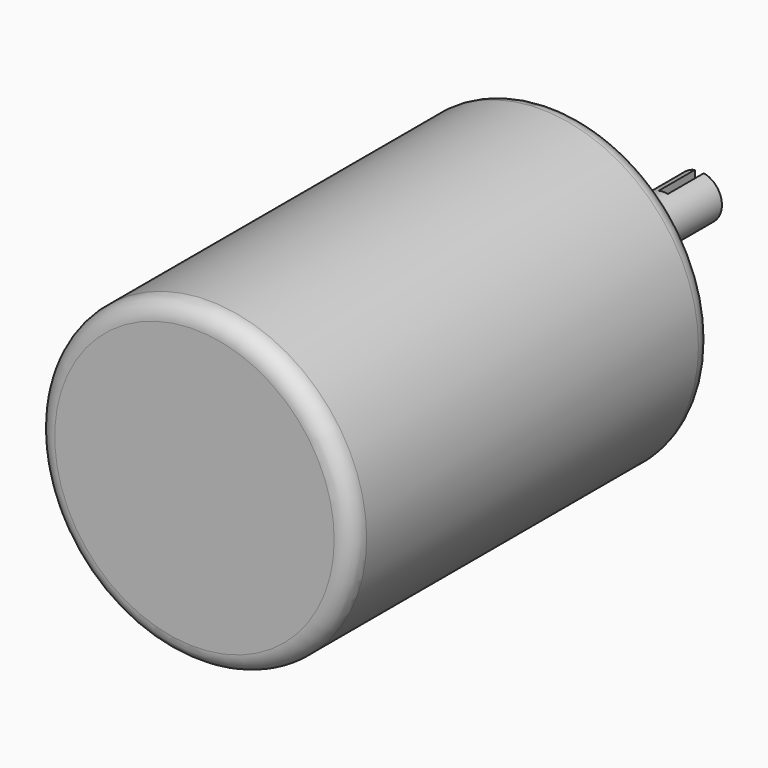
from build123d import *

# Parameters (mm, degrees)
F0_R     = 6.35
F1_DEPTH = 50.8
F2_R     = 44.45
F3_DEPTH = 127
F4_R     = 5.08
F5_R     = 5.08
F7_DEPTH = 12.7


with BuildPart() as f1:
    # F0 (on Front) → F1 (new body)
    with BuildSketch(Plane.XZ):
        Circle(F0_R)
    extrude(amount=F1_DEPTH)

    # F2 (on face) → F3 (join)
    with BuildSketch(Plane.XZ.offset(50.8)):
        Circle(F2_R)
    extrude(amount=F3_DEPTH)

    # F4
    f4_edges = [f1.edges().sort_by_distance(p)[0] for p in [
        (-44.45, -50.8, 0),
    ]]
    fillet(f4_edges, radius=F4_R)

    # F5
    f5_edges = [f1.edges().sort_by_distance(p)[0] for p in [
        (-44.45, -177.8, 0),
    ]]
    fillet(f5_edges, radius=F5_R)

    # F6 (on face) → F7 (cut)
    with BuildSketch(Plane(origin=(0, 0, 0), x_dir=(-1, 0, 0), z_dir=(0, 1, 0))):
        with BuildLine():
            ThreePointArc((0, 6.35), (-0.6382319087, 6.3178445716), (-1.27, 6.2217039467))
            Line((-1.27, 6.2217039467), (-1.27, 3.81))
            Line((-1.27, 3.81), (0, 3.81))
            Line((0, 3.81), (0, 6.35))
        make_face()
        with BuildLine():
            Line((1.27, 3.81), (1.27, 6.2217039467))
            ThreePointArc((1.27, 6.2217039467), (0.6382319087, 6.3178445716), (0, 6.35))
            Line((0, 6.35), (0, 3.81))
            Line((0, 3.81), (1.27, 3.81))
        make_face()
    extrude(amount=-F7_DEPTH, mode=Mode.SUBTRACT)


solid = f1.part
